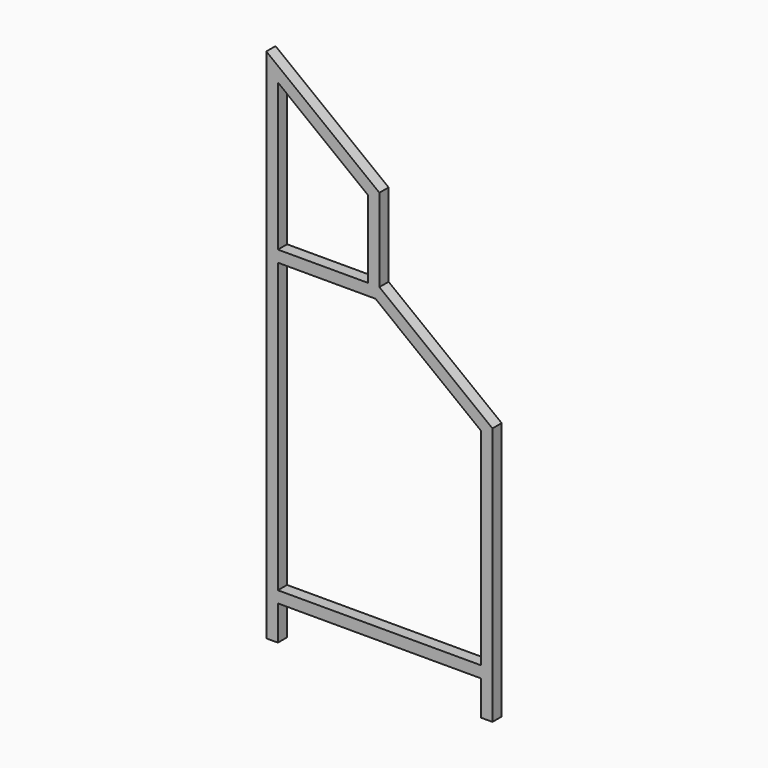
from build123d import *

# Parameters (mm, degrees)
F0_W     = 558.8
F0_H     = 31.75
F1_DEPTH = 31.75


with BuildPart() as f1:
    # F0 (on Front) → F1 (new body)
    with BuildSketch(Plane.XZ):
        Polygon((0, 711.2), (0, 0), (31.75, 0), (31.75, 95.25), (31.75, 127), (31.75, 920.75), (31.75, 952.5), (31.75, 1357.598856), (279.4, 1165.543754), (279.4, 952.5), (311.15, 952.5), (311.15, 1181.1), (0, 1422.4), (0, 952.5), align=None)
        Polygon((590.55, 127), (590.55, 95.25), (590.55, 0), (622.3, 0), (622.3, 711.2), (311.15, 952.5), (279.4, 952.5), (31.75, 952.5), (31.75, 920.75), (300.28142, 920.75), (590.55, 695.643754), align=None)
        with Locations((311.15, 111.125)):
            Rectangle(F0_W, F0_H)
    extrude(amount=F1_DEPTH)


solid = f1.part
